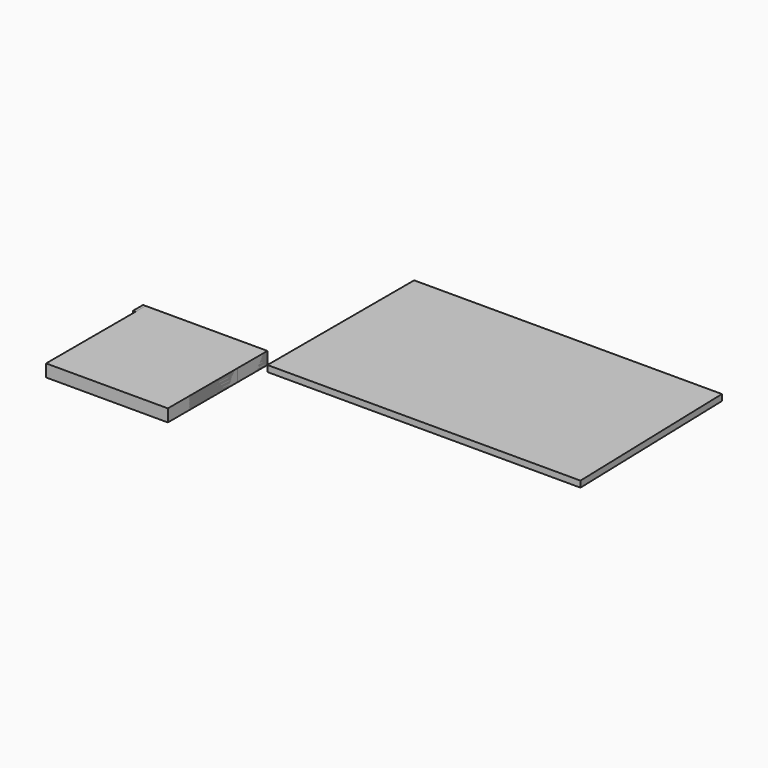
from build123d import *

# Parameters (mm, degrees)
SKETCH_W     = 34.929359
SKETCH_H     = 20.486658
PAD_DEPTH    = 10
SKETCH001_W  = 20.015697
SKETCH001_H  = 44.976456
PAD001_DEPTH = 10
SKETCH002_W  = 29.960587
SKETCH002_H  = 30.027189
PAD002_DEPTH = 10
SKETCH003_W  = 54.766457
SKETCH003_H  = 44.701084
PAD003_DEPTH = 10
SKETCH004_W  = 42.188831
SKETCH004_H  = 78.241425
PAD004_DEPTH = 10
SKETCH005_W  = 100.185661
SKETCH005_H  = 10.112617
PAD005_DEPTH = 10
SKETCH006_W  = 49.87516
SKETCH006_H  = 40.159164
PAD006_DEPTH = 10
SKETCH007_W  = 98.089394
SKETCH007_H  = 100.252266
PAD007_DEPTH = 10
SKETCH008_W  = 50.923298
SKETCH008_H  = 49.592381
PAD008_DEPTH = 10
SKETCH009_W  = 29.960587
SKETCH009_H  = 30.027189
PAD009_DEPTH = 10
SKETCH010_W  = 49.87516
SKETCH010_H  = 40.159164
PAD010_DEPTH = 10
SKETCH011_W  = 54.766457
SKETCH011_H  = 44.701084
PAD011_DEPTH = 10
SKETCH012_W  = 29.960587
SKETCH012_H  = 30.027189
PAD012_DEPTH = 10
SKETCH013_W  = 100.185661
SKETCH013_H  = 10.112617
PAD013_DEPTH = 10
SKETCH014_W  = 98.089394
SKETCH014_H  = 100.252266
PAD014_DEPTH = 10
PAD015_DEPTH = 5


with BuildPart() as body:
    # Sketch → Pad (new body)
    with BuildSketch(Plane.XY):
        with Locations((17.464679, 10.243329)):
            Rectangle(SKETCH_W, SKETCH_H)
    extrude(amount=PAD_DEPTH)


with BuildPart() as body_1:
    # Body placement: moved
    add(body.part.moved(Location((-34.929359, -20.486658, 0))))


with BuildPart() as body001:
    # Sketch001 → Pad001 (new body)
    with BuildSketch(Plane.XY):
        with Locations((10.007848, 22.488228)):
            Rectangle(SKETCH001_W, SKETCH001_H)
    extrude(amount=PAD001_DEPTH)


with BuildPart() as body001_1:
    # Body001 placement: moved
    add(body001.part.moved(Location((-20.015697, -44.976456, 0))))


with BuildPart() as body002:
    # Sketch002 → Pad002 (new body)
    with BuildSketch(Plane.XY):
        with Locations((14.980294, 15.013594)):
            Rectangle(SKETCH002_W, SKETCH002_H)
    extrude(amount=PAD002_DEPTH)


with BuildPart() as body002_1:
    # Body002 placement: moved
    add(body002.part.moved(Location((-29.960587, -30.027189, 0))))


with BuildPart() as body003:
    # Sketch003 → Pad003 (new body)
    with BuildSketch(Plane.XY):
        with Locations((27.383228, 22.350542)):
            Rectangle(SKETCH003_W, SKETCH003_H)
    extrude(amount=PAD003_DEPTH)


with BuildPart() as body003_1:
    # Body003 placement: moved
    add(body003.part.moved(Location((-54.766457, -44.701084, 0))))


with BuildPart() as body004:
    # Sketch004 → Pad004 (new body)
    with BuildSketch(Plane.XY):
        with Locations((21.094416, 39.120712)):
            Rectangle(SKETCH004_W, SKETCH004_H)
    extrude(amount=PAD004_DEPTH)


with BuildPart() as body004_1:
    # Body004 placement: moved
    add(body004.part.moved(Location((-42.188831, -78.241425, 0))))


with BuildPart() as body005:
    # Sketch005 → Pad005 (new body)
    with BuildSketch(Plane.XY):
        with Locations((50.09283, 5.056309)):
            Rectangle(SKETCH005_W, SKETCH005_H)
    extrude(amount=PAD005_DEPTH)


with BuildPart() as body005_1:
    # Body005 placement: moved
    add(body005.part.moved(Location((-100.185661, -10.112617, 0))))


with BuildPart() as body006:
    # Sketch006 → Pad006 (new body)
    with BuildSketch(Plane.XY):
        with Locations((24.93758, 20.079582)):
            Rectangle(SKETCH006_W, SKETCH006_H)
    extrude(amount=PAD006_DEPTH)


with BuildPart() as body006_1:
    # Body006 placement: moved
    add(body006.part.moved(Location((-49.87516, -40.159164, 0))))


with BuildPart() as body007:
    # Sketch007 → Pad007 (new body)
    with BuildSketch(Plane.XY):
        with Locations((49.044697, 50.126133)):
            Rectangle(SKETCH007_W, SKETCH007_H)
    extrude(amount=PAD007_DEPTH)


with BuildPart() as body007_1:
    # Body007 placement: moved
    add(body007.part.moved(Location((-98.089394, -100.252266, 0))))


with BuildPart() as body008:
    # Sketch008 → Pad008 (new body)
    with BuildSketch(Plane.XY):
        with Locations((25.461649, 24.79619)):
            Rectangle(SKETCH008_W, SKETCH008_H)
    extrude(amount=PAD008_DEPTH)


with BuildPart() as body008_1:
    # Body008 placement: moved
    add(body008.part.moved(Location((-50.923298, -49.592381, 0))))


with BuildPart() as body009:
    # Sketch009 → Pad009 (new body)
    with BuildSketch(Plane.XY):
        with Locations((14.980294, 15.013594)):
            Rectangle(SKETCH009_W, SKETCH009_H)
    extrude(amount=PAD009_DEPTH)


with BuildPart() as body009_1:
    # Body009 placement: moved
    add(body009.part.moved(Location((-29.960587, -30.027189, 0))))


with BuildPart() as body010:
    # Sketch010 → Pad010 (new body)
    with BuildSketch(Plane.XY):
        with Locations((24.93758, 20.079582)):
            Rectangle(SKETCH010_W, SKETCH010_H)
    extrude(amount=PAD010_DEPTH)


with BuildPart() as body010_1:
    # Body010 placement: moved
    add(body010.part.moved(Location((-49.87516, -40.159164, 0))))


with BuildPart() as body011:
    # Sketch011 → Pad011 (new body)
    with BuildSketch(Plane.XY):
        with Locations((27.383228, 22.350542)):
            Rectangle(SKETCH011_W, SKETCH011_H)
    extrude(amount=PAD011_DEPTH)


with BuildPart() as body011_1:
    # Body011 placement: moved
    add(body011.part.moved(Location((-54.766457, -44.701084, 0))))


with BuildPart() as body012:
    # Sketch012 → Pad012 (new body)
    with BuildSketch(Plane.XY):
        with Locations((14.980294, 15.013594)):
            Rectangle(SKETCH012_W, SKETCH012_H)
    extrude(amount=PAD012_DEPTH)


with BuildPart() as body012_1:
    # Body012 placement: moved
    add(body012.part.moved(Location((-29.960587, -30.027189, 0))))


with BuildPart() as body013:
    # Sketch013 → Pad013 (new body)
    with BuildSketch(Plane.XY):
        with Locations((50.09283, 5.056309)):
            Rectangle(SKETCH013_W, SKETCH013_H)
    extrude(amount=PAD013_DEPTH)


with BuildPart() as body013_1:
    # Body013 placement: moved
    add(body013.part.moved(Location((-100.185661, -10.112617, 0))))


with BuildPart() as body014:
    # Sketch014 → Pad014 (new body)
    with BuildSketch(Plane.XY):
        with Locations((49.044697, 50.126133)):
            Rectangle(SKETCH014_W, SKETCH014_H)
    extrude(amount=PAD014_DEPTH)


with BuildPart() as body014_1:
    # Body014 placement: moved
    add(body014.part.moved(Location((-98.089394, -100.252266, 0))))


with BuildPart() as board_body:
    # Sketch015 → Pad015 (new body)
    with BuildSketch(Plane.XY):
        Polygon((0, 20.547499), (-247.900177, 20.547499), (-247.900177, -127.148323), (4.227076, -127.148323), align=None)
    extrude(amount=-PAD015_DEPTH)


with BuildPart() as board_body_1:
    # Body015 placement: moved
    add(board_body.part.moved(Location((247.900177, 127.148323, 0))))


solid = Compound([body_1.part, body001_1.part, body002_1.part, body003_1.part, body004_1.part, body005_1.part, body006_1.part, body007_1.part, body008_1.part, body009_1.part, body010_1.part, body011_1.part, body012_1.part, body013_1.part, body014_1.part, board_body_1.part])
